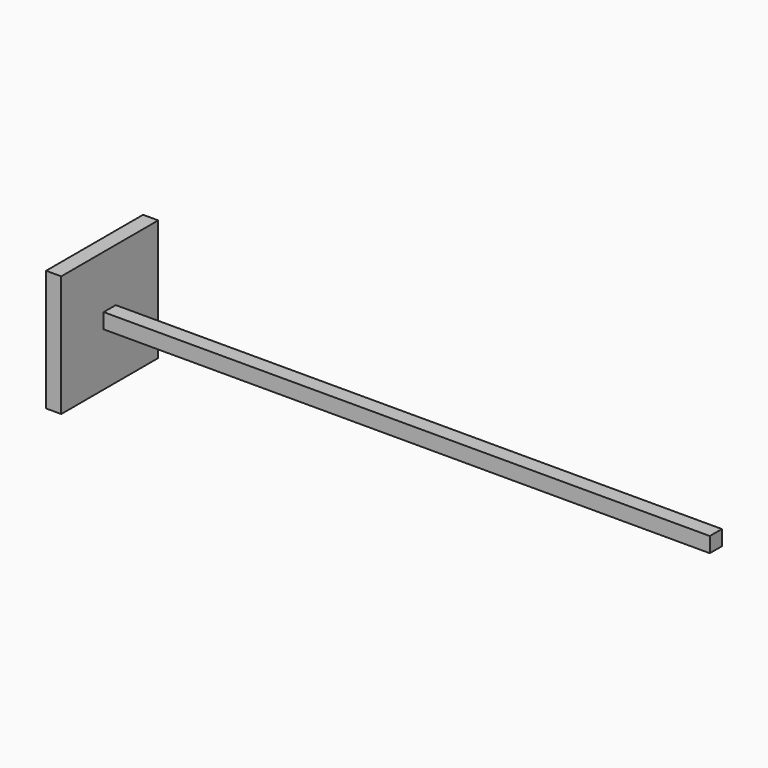
from build123d import *

# Parameters (mm, degrees)
F0_W     = 25
F0_H     = 25
F1_DEPTH = 1000
F2_W     = 200
F2_H     = 200
F2_W_2   = 25
F2_H_2   = 25
F3_DEPTH = 25


with BuildPart() as f1:
    # F0 (on Right) → F1 (new body)
    with BuildSketch(Plane.YZ):
        Rectangle(F0_W, F0_H)
    extrude(amount=F1_DEPTH)


with BuildPart() as f3:
    # F2 (on face) → F3 (new body)
    with BuildSketch(Plane(origin=(0, 0, 0), x_dir=(0, -1, 0), z_dir=(-1, 0, 0))):
        Rectangle(F2_W, F2_H)
        Rectangle(F2_W_2, F2_H_2, mode=Mode.SUBTRACT)
        Rectangle(F2_W_2, F2_H_2)
    extrude(amount=F3_DEPTH)


solid = Compound([f1.part, f3.part])
